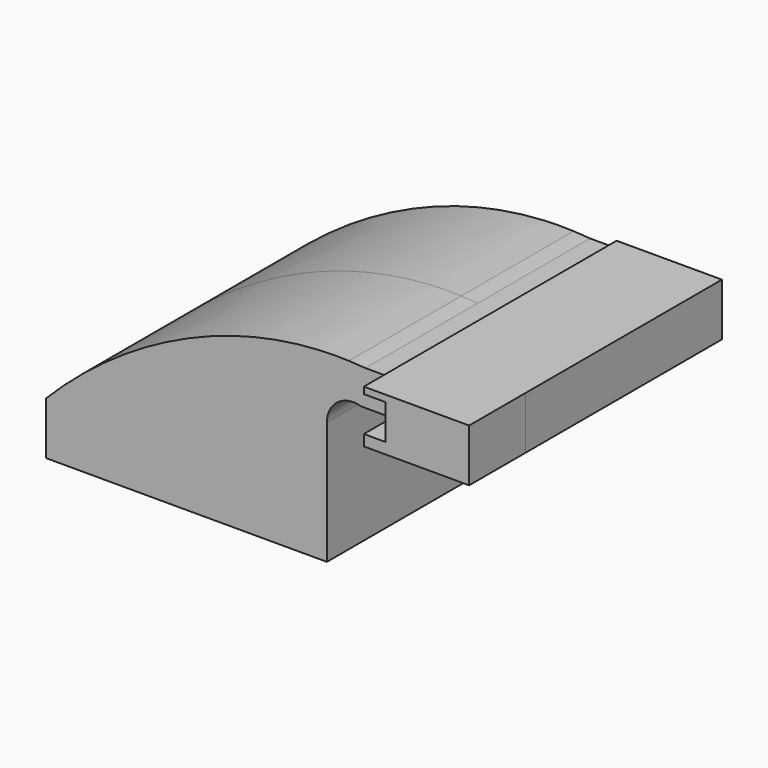
from build123d import *

# Parameters (mm, degrees)
F1_DEPTH = 50.8
F2_DEPTH = 12.7


with BuildPart() as f1:
    # F0 (on Front) → F1 (new body, symmetric)
    with BuildSketch(Plane.XZ):
        with BuildLine():
            add(Edge.make_bspline(
                [(-50.8, 9.525), (-23.533797, 37.189879), (16.188515, 58.709513), (58.740117, 57.093418)],
                knots=[0, 0, 0, 0, 119.218988, 119.218988, 119.218988, 119.218988], degree=3))
            Line((-50.8, 9.525), (38.1, 9.525))
            Line((38.1, 9.525), (38.1, 34.925))
            ThreePointArc((38.1, 34.925), (44.058859, 50.069745), (58.740117, 57.093418))
        make_face()
        Polygon((-50.8, 9.525), (-50.8, -9.525), (50.8, -9.525), (50.8, 9.525), (38.1, 9.525), align=None)
        with BuildLine():
            Line((38.1, 9.525), (50.8, 9.525))
            Line((50.8, 9.525), (50.8, 34.925))
            ThreePointArc((50.8, 34.925), (54.683589, 42.599641), (63.167477, 44.015982))
            Line((63.167477, 44.015982), (74.313026, 44.015982))
            Line((74.313026, 44.015982), (74.313026, 56.715982))
            Line((74.313026, 56.715982), (64.695783, 56.715982))
            add(Edge.make_bspline(
                [(58.740117, 57.093418), (60.719539, 57.018241), (62.705084, 56.892998), (64.695783, 56.715982)],
                knots=[119.218988, 119.218988, 119.218988, 119.218988, 124.764837, 124.764837, 124.764837, 124.764837], degree=3))
            ThreePointArc((58.740117, 57.093418), (44.058859, 50.069745), (38.1, 34.925))
            Line((38.1, 34.925), (38.1, 9.525))
        make_face()
        Polygon((74.313026, 59.106587), (74.313026, 56.715982), (82.217477, 56.715982), (82.217477, 44.015982), (74.313026, 44.015982), (74.313026, 40.056587), (112.413026, 40.056587), (112.413026, 59.106587), align=None)
    extrude(amount=F1_DEPTH, both=True)

    # F1_face (on face) → F2 (join, symmetric)
    with BuildSketch(Plane(origin=(95.786385, -50.8, 49.455683), x_dir=(1, 0, 0), z_dir=(0, -1, 0))):
        Polygon((16.626642, 9.650904), (-21.473358, 9.650904), (-21.473358, 7.260299), (-13.568907, 7.260299), (-13.568907, -5.439701), (-21.473358, -5.439701), (-21.473358, -9.399096), (16.626642, -9.399096), align=None)
    extrude(amount=F2_DEPTH, both=True)


solid = f1.part
